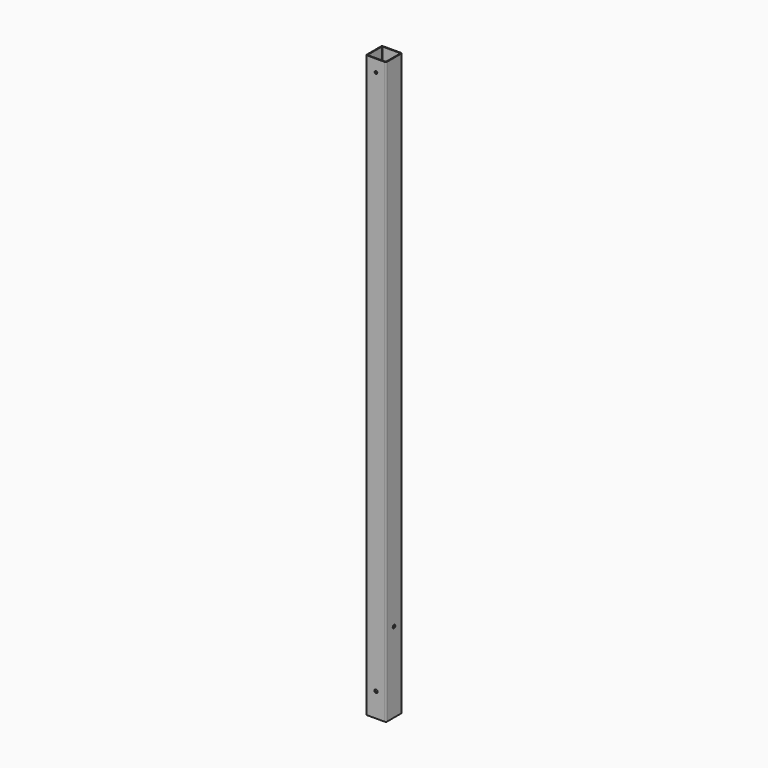
from build123d import *

# Parameters (mm, degrees)
F1_DEPTH = 1450
F2_T     = -2
F4_D     = 6.5
F4_DEPTH = 25
F6_D     = 8
F8_D     = 8


with BuildPart() as f1:
    # F0 (on Top) → F1 (new body)
    with BuildSketch(Plane.XY):
        with BuildLine():
            ThreePointArc((-25, -22), (-24.12132, -24.12132), (-22, -25))
            Line((-22, -25), (22, -25))
            ThreePointArc((22, -25), (24.12132, -24.12132), (25, -22))
            Line((25, -22), (25, 22))
            ThreePointArc((25, 22), (24.12132, 24.12132), (22, 25))
            Line((22, 25), (-22, 25))
            ThreePointArc((-22, 25), (-24.12132, 24.12132), (-25, 22))
            Line((-25, 22), (-25, -22))
        make_face()
    extrude(amount=F1_DEPTH)

    # F2
    f2_openings = [f1.faces().sort_by_distance(p)[0] for p in [
        (0, 0, 1450),
        (0, 0, 0),
    ]]
    offset(amount=F2_T, openings=f2_openings)

    # F4
    with Locations(Plane.XZ.offset(25)):
        with Locations((0, 1420)):
            Hole(F4_D / 2, depth=F4_DEPTH)

    # F6 (through all)
    with Locations(Plane.XZ.offset(25)):
        with Locations((0, 60)):
            Hole(F6_D / 2)

    # F8 (through all)
    with Locations(Plane(origin=(-25, 0, 0), x_dir=(0, -1, 0), z_dir=(-1, 0, 0))):
        with Locations((0, 200)):
            Hole(F8_D / 2)


solid = f1.part
